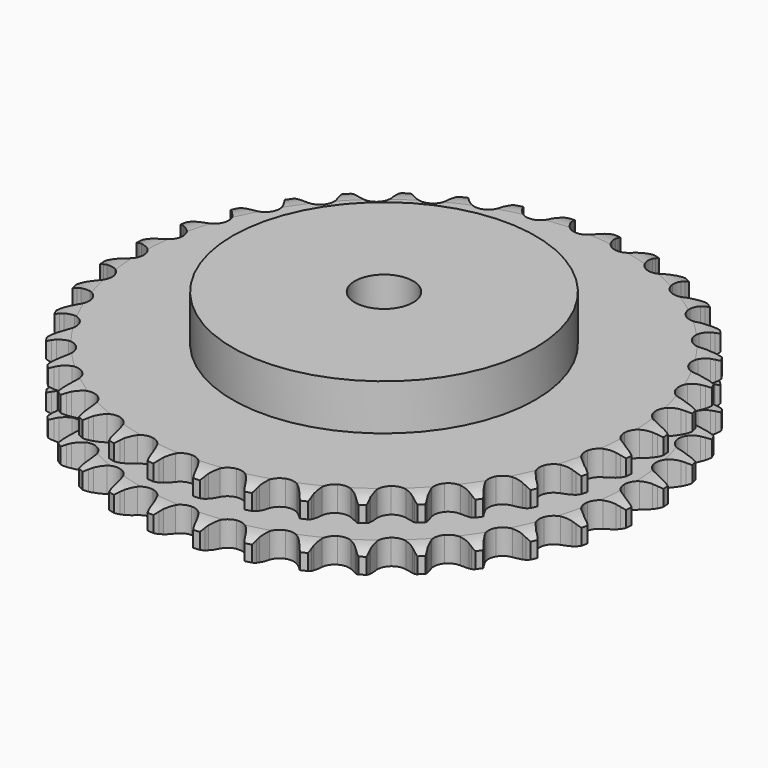
from build123d import *

# Parameters (mm, degrees)
PAD_DEPTH         = 30.3
SKETCH001_R       = 65
PAD001_DEPTH      = 50
SKETCH002_R       = 12.5
POCKET_DEPTH      = 0.001
POCKET_DEPTH_BACK = 50.001


with BuildPart() as part:
    # Sprocket → Pad (new body)
    with BuildSketch(Plane.XY):
        with BuildLine():
            ThreePointArc((-10.052334, 114.898699), (-8.631125, 113.189539), (-7.631331, 111.204226))
            Line((-7.631331, 111.204226), (-7.042556, 109.605897))
            ThreePointArc((-7.042556, 109.605897), (-6.111504, 107.547038), (-4.895578, 105.642496))
            ThreePointArc((-4.895578, 105.642496), (-2.739145, 103.833033), (0, 103.183844))
            ThreePointArc((0, 103.183844), (2.739145, 103.833033), (4.895578, 105.642496))
            ThreePointArc((4.895578, 105.642496), (6.111504, 107.547038), (7.042556, 109.605897))
            Line((7.042556, 109.605897), (7.631331, 111.204226))
            ThreePointArc((7.631331, 111.204226), (8.631125, 113.189539), (10.052334, 114.898699))
            ThreePointArc((10.052334, 114.898699), (11.155158, 112.968715), (11.795017, 110.83995))
            Line((11.795017, 110.83995), (12.0973, 109.163664))
            ThreePointArc((12.0973, 109.163664), (12.656691, 106.974409), (13.523423, 104.887657))
            ThreePointArc((13.523423, 104.887657), (15.332886, 102.731223), (17.917686, 101.616249))
            ThreePointArc((17.917686, 101.616249), (20.727948, 101.779928), (23.16583, 103.18744))
            Line((23.16583, 103.18744), (25.968428, 106.71781))
            ThreePointArc((25.968428, 106.71781), (26.377217, 107.465305), (26.825805, 108.189617))
            ThreePointArc((26.825805, 108.189617), (28.155156, 109.971157), (29.851566, 111.40756))
            ThreePointArc((29.851566, 111.40756), (30.602498, 109.315394), (30.86298, 107.107859))
            Line((30.86298, 107.107859), (30.869586, 105.404549))
            ThreePointArc((30.869586, 105.404549), (31.040318, 103.151416), (31.531523, 100.94586))
            ThreePointArc((31.531523, 100.94586), (32.939035, 98.507978), (35.290953, 96.961096))
            ThreePointArc((35.290953, 96.961096), (38.086943, 96.634292), (40.7322, 97.597087))
            Line((40.7322, 97.597087), (44.105263, 100.587156))
            ThreePointArc((44.105263, 100.587156), (44.637643, 101.25231), (45.20519, 101.887721))
            ThreePointArc((45.20519, 101.887721), (46.823707, 103.411356), (48.743773, 104.531359))
            ThreePointArc((48.743773, 104.531359), (49.119996, 102.340579), (48.993186, 100.12135))
            Line((48.993186, 100.12135), (48.703916, 98.442769))
            ThreePointArc((48.703916, 98.442769), (48.480802, 96.194219), (48.581552, 93.936874))
            ThreePointArc((48.581552, 93.936874), (49.544347, 91.291617), (51.591922, 89.35983))
            ThreePointArc((51.591922, 89.35983), (54.288685, 88.552472), (57.060943, 89.041296))
            Line((57.060943, 89.041296), (60.901981, 91.400213))
            ThreePointArc((60.901981, 91.400213), (61.541776, 91.962815), (62.211039, 92.490019))
            ThreePointArc((62.211039, 92.490019), (64.069543, 93.709454), (66.154926, 94.479025))
            ThreePointArc((66.154926, 94.479025), (66.145008, 92.256198), (65.63476, 90.092704))
            Line((65.63476, 90.092704), (65.058401, 88.489856))
            ThreePointArc((65.058401, 88.489856), (64.44822, 86.31421), (64.155457, 84.073664))
            ThreePointArc((64.155457, 84.073664), (64.64428, 81.301406), (66.325296, 79.04341))
            ThreePointArc((66.325296, 79.04341), (68.840894, 77.78003), (71.655918, 77.78003))
            Line((71.655918, 77.78003), (75.848224, 79.43612))
            ThreePointArc((75.848224, 79.43612), (76.575993, 79.879076), (77.326637, 80.282054))
            ThreePointArc((77.326637, 80.282054), (79.368659, 81.160237), (81.555994, 81.555994))
            ThreePointArc((81.555994, 81.555994), (81.160237, 79.368659), (80.282054, 77.326637))
            Line((80.282054, 77.326637), (79.43612, 75.848224))
            ThreePointArc((79.43612, 75.848224), (78.457412, 73.811587), (77.78003, 71.655918))
            ThreePointArc((77.78003, 71.655918), (77.78003, 68.840894), (79.04341, 66.325296))
            ThreePointArc((79.04341, 66.325296), (81.301406, 64.64428), (84.073664, 64.155457))
            Line((84.073664, 64.155457), (88.489856, 65.058401))
            ThreePointArc((88.489856, 65.058401), (89.283488, 65.368252), (90.092704, 65.63476))
            ThreePointArc((90.092704, 65.63476), (92.256198, 66.145008), (94.479025, 66.154926))
            ThreePointArc((94.479025, 66.154926), (93.709454, 64.069543), (92.490019, 62.211039))
            Line((92.490019, 62.211039), (91.400213, 60.901981))
            ThreePointArc((91.400213, 60.901981), (90.082715, 59.066237), (89.041296, 57.060943))
            ThreePointArc((89.041296, 57.060943), (88.552472, 54.288685), (89.35983, 51.591922))
            ThreePointArc((89.35983, 51.591922), (91.291617, 49.544347), (93.936874, 48.581552))
            Line((93.936874, 48.581552), (98.442769, 48.703916))
            ThreePointArc((98.442769, 48.703916), (99.278149, 48.871246), (100.12135, 48.993186))
            ThreePointArc((100.12135, 48.993186), (102.340579, 49.119996), (104.531359, 48.743773))
            ThreePointArc((104.531359, 48.743773), (103.411356, 46.823707), (101.887721, 45.20519))
            Line((101.887721, 45.20519), (100.587156, 44.105263))
            ThreePointArc((100.587156, 44.105263), (98.970901, 42.526188), (97.597087, 40.7322))
            ThreePointArc((97.597087, 40.7322), (96.634292, 38.086943), (96.961096, 35.290953))
            ThreePointArc((96.961096, 35.290953), (98.507978, 32.939035), (100.94586, 31.531523))
            Line((100.94586, 31.531523), (105.404549, 30.869586))
            ThreePointArc((105.404549, 30.869586), (106.256293, 30.889312), (107.107859, 30.86298))
            ThreePointArc((107.107859, 30.86298), (109.315394, 30.602498), (111.40756, 29.851566))
            ThreePointArc((111.40756, 29.851566), (109.971157, 28.155156), (108.189617, 26.825805))
            Line((108.189617, 26.825805), (106.71781, 25.968428))
            ThreePointArc((106.71781, 25.968428), (104.851906, 24.694004), (103.18744, 23.16583))
            ThreePointArc((103.18744, 23.16583), (101.779928, 20.727948), (101.616249, 17.917686))
            ThreePointArc((101.616249, 17.917686), (102.731223, 15.332886), (104.887657, 13.523423))
            Line((104.887657, 13.523423), (109.163664, 12.0973))
            ThreePointArc((109.163664, 12.0973), (110.005894, 11.968823), (110.83995, 11.795017))
            ThreePointArc((110.83995, 11.795017), (112.968715, 11.155158), (114.898699, 10.052334))
            ThreePointArc((114.898699, 10.052334), (113.189539, 8.631125), (111.204226, 7.631331))
            Line((111.204226, 7.631331), (109.605897, 7.042556))
            ThreePointArc((109.605897, 7.042556), (107.547038, 6.111504), (105.642496, 4.895578))
            ThreePointArc((105.642496, 4.895578), (103.833033, 2.739145), (103.183844, 0))
            ThreePointArc((103.183844, 0), (103.833033, -2.739145), (105.642496, -4.895578))
            Line((105.642496, -4.895578), (109.605897, -7.042556))
            ThreePointArc((109.605897, -7.042556), (110.413022, -7.315334), (111.204226, -7.631331))
            ThreePointArc((111.204226, -7.631331), (113.189539, -8.631125), (114.898699, -10.052334))
            ThreePointArc((114.898699, -10.052334), (112.968715, -11.155158), (110.83995, -11.795017))
            Line((110.83995, -11.795017), (109.163664, -12.0973))
            ThreePointArc((109.163664, -12.0973), (106.974409, -12.656691), (104.887657, -13.523423))
            ThreePointArc((104.887657, -13.523423), (102.731223, -15.332886), (101.616249, -17.917686))
            ThreePointArc((101.616249, -17.917686), (101.779928, -20.727948), (103.18744, -23.16583))
            Line((103.18744, -23.16583), (106.71781, -25.968428))
            ThreePointArc((106.71781, -25.968428), (107.465305, -26.377217), (108.189617, -26.825805))
            ThreePointArc((108.189617, -26.825805), (109.971157, -28.155156), (111.40756, -29.851566))
            ThreePointArc((111.40756, -29.851566), (109.315394, -30.602498), (107.107859, -30.86298))
            Line((107.107859, -30.86298), (105.404549, -30.869586))
            ThreePointArc((105.404549, -30.869586), (103.151416, -31.040318), (100.94586, -31.531523))
            ThreePointArc((100.94586, -31.531523), (98.507978, -32.939035), (96.961096, -35.290953))
            ThreePointArc((96.961096, -35.290953), (96.634292, -38.086943), (97.597087, -40.7322))
            Line((97.597087, -40.7322), (100.587156, -44.105263))
            ThreePointArc((100.587156, -44.105263), (101.25231, -44.637643), (101.887721, -45.20519))
            ThreePointArc((101.887721, -45.20519), (103.411356, -46.823707), (104.531359, -48.743773))
            ThreePointArc((104.531359, -48.743773), (102.340579, -49.119996), (100.12135, -48.993186))
            Line((100.12135, -48.993186), (98.442769, -48.703916))
            ThreePointArc((98.442769, -48.703916), (96.194219, -48.480802), (93.936874, -48.581552))
            ThreePointArc((93.936874, -48.581552), (91.291617, -49.544347), (89.35983, -51.591922))
            ThreePointArc((89.35983, -51.591922), (88.552472, -54.288685), (89.041296, -57.060943))
            Line((89.041296, -57.060943), (91.400213, -60.901981))
            ThreePointArc((91.400213, -60.901981), (91.962815, -61.541776), (92.490019, -62.211039))
            ThreePointArc((92.490019, -62.211039), (93.709454, -64.069543), (94.479025, -66.154926))
            ThreePointArc((94.479025, -66.154926), (92.256198, -66.145008), (90.092704, -65.63476))
            Line((90.092704, -65.63476), (88.489856, -65.058401))
            ThreePointArc((88.489856, -65.058401), (86.31421, -64.44822), (84.073664, -64.155457))
            ThreePointArc((84.073664, -64.155457), (81.301406, -64.64428), (79.04341, -66.325296))
            ThreePointArc((79.04341, -66.325296), (77.78003, -68.840894), (77.78003, -71.655918))
            Line((77.78003, -71.655918), (79.43612, -75.848224))
            ThreePointArc((79.43612, -75.848224), (79.879076, -76.575993), (80.282054, -77.326637))
            ThreePointArc((80.282054, -77.326637), (81.160237, -79.368659), (81.555994, -81.555994))
            ThreePointArc((81.555994, -81.555994), (79.368659, -81.160237), (77.326637, -80.282054))
            Line((77.326637, -80.282054), (75.848224, -79.43612))
            ThreePointArc((75.848224, -79.43612), (73.811587, -78.457412), (71.655918, -77.78003))
            ThreePointArc((71.655918, -77.78003), (68.840894, -77.78003), (66.325296, -79.04341))
            ThreePointArc((66.325296, -79.04341), (64.64428, -81.301406), (64.155457, -84.073664))
            Line((64.155457, -84.073664), (65.058401, -88.489856))
            ThreePointArc((65.058401, -88.489856), (65.368252, -89.283488), (65.63476, -90.092704))
            ThreePointArc((65.63476, -90.092704), (66.145008, -92.256198), (66.154926, -94.479025))
            ThreePointArc((66.154926, -94.479025), (64.069543, -93.709454), (62.211039, -92.490019))
            Line((62.211039, -92.490019), (60.901981, -91.400213))
            ThreePointArc((60.901981, -91.400213), (59.066237, -90.082715), (57.060943, -89.041296))
            ThreePointArc((57.060943, -89.041296), (54.288685, -88.552472), (51.591922, -89.35983))
            ThreePointArc((51.591922, -89.35983), (49.544347, -91.291617), (48.581552, -93.936874))
            Line((48.581552, -93.936874), (48.703916, -98.442769))
            ThreePointArc((48.703916, -98.442769), (48.871246, -99.278149), (48.993186, -100.12135))
            ThreePointArc((48.993186, -100.12135), (49.119996, -102.340579), (48.743773, -104.531359))
            ThreePointArc((48.743773, -104.531359), (46.823707, -103.411356), (45.20519, -101.887721))
            Line((45.20519, -101.887721), (44.105263, -100.587156))
            ThreePointArc((44.105263, -100.587156), (42.526188, -98.970901), (40.7322, -97.597087))
            ThreePointArc((40.7322, -97.597087), (38.086943, -96.634292), (35.290953, -96.961096))
            ThreePointArc((35.290953, -96.961096), (32.939035, -98.507978), (31.531523, -100.94586))
            Line((31.531523, -100.94586), (30.869586, -105.404549))
            ThreePointArc((30.869586, -105.404549), (30.889312, -106.256293), (30.86298, -107.107859))
            ThreePointArc((30.86298, -107.107859), (30.602498, -109.315394), (29.851566, -111.40756))
            ThreePointArc((29.851566, -111.40756), (28.155156, -109.971157), (26.825805, -108.189617))
            Line((26.825805, -108.189617), (25.968428, -106.71781))
            ThreePointArc((25.968428, -106.71781), (24.694004, -104.851906), (23.16583, -103.18744))
            ThreePointArc((23.16583, -103.18744), (20.727948, -101.779928), (17.917686, -101.616249))
            ThreePointArc((17.917686, -101.616249), (15.332886, -102.731223), (13.523423, -104.887657))
            Line((13.523423, -104.887657), (12.0973, -109.163664))
            ThreePointArc((12.0973, -109.163664), (11.968823, -110.005894), (11.795017, -110.83995))
            ThreePointArc((11.795017, -110.83995), (11.155158, -112.968715), (10.052334, -114.898699))
            ThreePointArc((10.052334, -114.898699), (8.631125, -113.189539), (7.631331, -111.204226))
            Line((7.631331, -111.204226), (7.042556, -109.605897))
            ThreePointArc((7.042556, -109.605897), (6.111504, -107.547038), (4.895578, -105.642496))
            ThreePointArc((4.895578, -105.642496), (2.739145, -103.833033), (0, -103.183844))
            ThreePointArc((0, -103.183844), (-2.739145, -103.833033), (-4.895578, -105.642496))
            Line((-4.895578, -105.642496), (-7.042556, -109.605897))
            ThreePointArc((-7.042556, -109.605897), (-7.315334, -110.413022), (-7.631331, -111.204226))
            ThreePointArc((-7.631331, -111.204226), (-8.631125, -113.189539), (-10.052334, -114.898699))
            ThreePointArc((-10.052334, -114.898699), (-11.155158, -112.968715), (-11.795017, -110.83995))
            Line((-11.795017, -110.83995), (-12.0973, -109.163664))
            ThreePointArc((-12.0973, -109.163664), (-12.656691, -106.974409), (-13.523423, -104.887657))
            ThreePointArc((-13.523423, -104.887657), (-15.332886, -102.731223), (-17.917686, -101.616249))
            ThreePointArc((-17.917686, -101.616249), (-20.727948, -101.779928), (-23.16583, -103.18744))
            Line((-23.16583, -103.18744), (-25.968428, -106.71781))
            ThreePointArc((-25.968428, -106.71781), (-26.377217, -107.465305), (-26.825805, -108.189617))
            ThreePointArc((-26.825805, -108.189617), (-28.155156, -109.971157), (-29.851566, -111.40756))
            ThreePointArc((-29.851566, -111.40756), (-30.602498, -109.315394), (-30.86298, -107.107859))
            Line((-30.86298, -107.107859), (-30.869586, -105.404549))
            ThreePointArc((-30.869586, -105.404549), (-31.040318, -103.151416), (-31.531523, -100.94586))
            ThreePointArc((-31.531523, -100.94586), (-32.939035, -98.507978), (-35.290953, -96.961096))
            ThreePointArc((-35.290953, -96.961096), (-38.086943, -96.634292), (-40.7322, -97.597087))
            Line((-40.7322, -97.597087), (-44.105263, -100.587156))
            ThreePointArc((-44.105263, -100.587156), (-44.637643, -101.25231), (-45.20519, -101.887721))
            ThreePointArc((-45.20519, -101.887721), (-46.823707, -103.411356), (-48.743773, -104.531359))
            ThreePointArc((-48.743773, -104.531359), (-49.119996, -102.340579), (-48.993186, -100.12135))
            Line((-48.993186, -100.12135), (-48.703916, -98.442769))
            ThreePointArc((-48.703916, -98.442769), (-48.480802, -96.194219), (-48.581552, -93.936874))
            ThreePointArc((-48.581552, -93.936874), (-49.544347, -91.291617), (-51.591922, -89.35983))
            ThreePointArc((-51.591922, -89.35983), (-54.288685, -88.552472), (-57.060943, -89.041296))
            Line((-57.060943, -89.041296), (-60.901981, -91.400213))
            ThreePointArc((-60.901981, -91.400213), (-61.541776, -91.962815), (-62.211039, -92.490019))
            ThreePointArc((-62.211039, -92.490019), (-64.069543, -93.709454), (-66.154926, -94.479025))
            ThreePointArc((-66.154926, -94.479025), (-66.145008, -92.256198), (-65.63476, -90.092704))
            Line((-65.63476, -90.092704), (-65.058401, -88.489856))
            ThreePointArc((-65.058401, -88.489856), (-64.44822, -86.31421), (-64.155457, -84.073664))
            ThreePointArc((-64.155457, -84.073664), (-64.64428, -81.301406), (-66.325296, -79.04341))
            ThreePointArc((-66.325296, -79.04341), (-68.840894, -77.78003), (-71.655918, -77.78003))
            Line((-71.655918, -77.78003), (-75.848224, -79.43612))
            ThreePointArc((-75.848224, -79.43612), (-76.575993, -79.879076), (-77.326637, -80.282054))
            ThreePointArc((-77.326637, -80.282054), (-79.368659, -81.160237), (-81.555994, -81.555994))
            ThreePointArc((-81.555994, -81.555994), (-81.160237, -79.368659), (-80.282054, -77.326637))
            Line((-80.282054, -77.326637), (-79.43612, -75.848224))
            ThreePointArc((-79.43612, -75.848224), (-78.457412, -73.811587), (-77.78003, -71.655918))
            ThreePointArc((-77.78003, -71.655918), (-77.78003, -68.840894), (-79.04341, -66.325296))
            ThreePointArc((-79.04341, -66.325296), (-81.301406, -64.64428), (-84.073664, -64.155457))
            Line((-84.073664, -64.155457), (-88.489856, -65.058401))
            ThreePointArc((-88.489856, -65.058401), (-89.283488, -65.368252), (-90.092704, -65.63476))
            ThreePointArc((-90.092704, -65.63476), (-92.256198, -66.145008), (-94.479025, -66.154926))
            ThreePointArc((-94.479025, -66.154926), (-93.709454, -64.069543), (-92.490019, -62.211039))
            Line((-92.490019, -62.211039), (-91.400213, -60.901981))
            ThreePointArc((-91.400213, -60.901981), (-90.082715, -59.066237), (-89.041296, -57.060943))
            ThreePointArc((-89.041296, -57.060943), (-88.552472, -54.288685), (-89.35983, -51.591922))
            ThreePointArc((-89.35983, -51.591922), (-91.291617, -49.544347), (-93.936874, -48.581552))
            Line((-93.936874, -48.581552), (-98.442769, -48.703916))
            ThreePointArc((-98.442769, -48.703916), (-99.278149, -48.871246), (-100.12135, -48.993186))
            ThreePointArc((-100.12135, -48.993186), (-102.340579, -49.119996), (-104.531359, -48.743773))
            ThreePointArc((-104.531359, -48.743773), (-103.411356, -46.823707), (-101.887721, -45.20519))
            Line((-101.887721, -45.20519), (-100.587156, -44.105263))
            ThreePointArc((-100.587156, -44.105263), (-98.970901, -42.526188), (-97.597087, -40.7322))
            ThreePointArc((-97.597087, -40.7322), (-96.634292, -38.086943), (-96.961096, -35.290953))
            ThreePointArc((-96.961096, -35.290953), (-98.507978, -32.939035), (-100.94586, -31.531523))
            Line((-100.94586, -31.531523), (-105.404549, -30.869586))
            ThreePointArc((-105.404549, -30.869586), (-106.256293, -30.889312), (-107.107859, -30.86298))
            ThreePointArc((-107.107859, -30.86298), (-109.315394, -30.602498), (-111.40756, -29.851566))
            ThreePointArc((-111.40756, -29.851566), (-109.971157, -28.155156), (-108.189617, -26.825805))
            Line((-108.189617, -26.825805), (-106.71781, -25.968428))
            ThreePointArc((-106.71781, -25.968428), (-104.851906, -24.694004), (-103.18744, -23.16583))
            ThreePointArc((-103.18744, -23.16583), (-101.779928, -20.727948), (-101.616249, -17.917686))
            ThreePointArc((-101.616249, -17.917686), (-102.731223, -15.332886), (-104.887657, -13.523423))
            Line((-104.887657, -13.523423), (-109.163664, -12.0973))
            ThreePointArc((-109.163664, -12.0973), (-110.005894, -11.968823), (-110.83995, -11.795017))
            ThreePointArc((-110.83995, -11.795017), (-112.968715, -11.155158), (-114.898699, -10.052334))
            ThreePointArc((-114.898699, -10.052334), (-113.189539, -8.631125), (-111.204226, -7.631331))
            Line((-111.204226, -7.631331), (-109.605897, -7.042556))
            ThreePointArc((-109.605897, -7.042556), (-107.547038, -6.111504), (-105.642496, -4.895578))
            ThreePointArc((-105.642496, -4.895578), (-103.833033, -2.739145), (-103.183844, 0))
            ThreePointArc((-103.183844, 0), (-103.833033, 2.739145), (-105.642496, 4.895578))
            Line((-105.642496, 4.895578), (-109.605897, 7.042556))
            ThreePointArc((-109.605897, 7.042556), (-110.413022, 7.315334), (-111.204226, 7.631331))
            ThreePointArc((-111.204226, 7.631331), (-113.189539, 8.631125), (-114.898699, 10.052334))
            ThreePointArc((-114.898699, 10.052334), (-112.968715, 11.155158), (-110.83995, 11.795017))
            Line((-110.83995, 11.795017), (-109.163664, 12.0973))
            ThreePointArc((-109.163664, 12.0973), (-106.974409, 12.656691), (-104.887657, 13.523423))
            ThreePointArc((-104.887657, 13.523423), (-102.731223, 15.332886), (-101.616249, 17.917686))
            ThreePointArc((-101.616249, 17.917686), (-101.779928, 20.727948), (-103.18744, 23.16583))
            Line((-103.18744, 23.16583), (-106.71781, 25.968428))
            ThreePointArc((-106.71781, 25.968428), (-107.465305, 26.377217), (-108.189617, 26.825805))
            ThreePointArc((-108.189617, 26.825805), (-109.971157, 28.155156), (-111.40756, 29.851566))
            ThreePointArc((-111.40756, 29.851566), (-109.315394, 30.602498), (-107.107859, 30.86298))
            Line((-107.107859, 30.86298), (-105.404549, 30.869586))
            ThreePointArc((-105.404549, 30.869586), (-103.151416, 31.040318), (-100.94586, 31.531523))
            ThreePointArc((-100.94586, 31.531523), (-98.507978, 32.939035), (-96.961096, 35.290953))
            ThreePointArc((-96.961096, 35.290953), (-96.634292, 38.086943), (-97.597087, 40.7322))
            Line((-97.597087, 40.7322), (-100.587156, 44.105263))
            ThreePointArc((-100.587156, 44.105263), (-101.25231, 44.637643), (-101.887721, 45.20519))
            ThreePointArc((-101.887721, 45.20519), (-103.411356, 46.823707), (-104.531359, 48.743773))
            ThreePointArc((-104.531359, 48.743773), (-102.340579, 49.119996), (-100.12135, 48.993186))
            Line((-100.12135, 48.993186), (-98.442769, 48.703916))
            ThreePointArc((-98.442769, 48.703916), (-96.194219, 48.480802), (-93.936874, 48.581552))
            ThreePointArc((-93.936874, 48.581552), (-91.291617, 49.544347), (-89.35983, 51.591922))
            ThreePointArc((-89.35983, 51.591922), (-88.552472, 54.288685), (-89.041296, 57.060943))
            Line((-89.041296, 57.060943), (-91.400213, 60.901981))
            ThreePointArc((-91.400213, 60.901981), (-91.962815, 61.541776), (-92.490019, 62.211039))
            ThreePointArc((-92.490019, 62.211039), (-93.709454, 64.069543), (-94.479025, 66.154926))
            ThreePointArc((-94.479025, 66.154926), (-92.256198, 66.145008), (-90.092704, 65.63476))
            Line((-90.092704, 65.63476), (-88.489856, 65.058401))
            ThreePointArc((-88.489856, 65.058401), (-86.31421, 64.44822), (-84.073664, 64.155457))
            ThreePointArc((-84.073664, 64.155457), (-81.301406, 64.64428), (-79.04341, 66.325296))
            ThreePointArc((-79.04341, 66.325296), (-77.78003, 68.840894), (-77.78003, 71.655918))
            Line((-77.78003, 71.655918), (-79.43612, 75.848224))
            ThreePointArc((-79.43612, 75.848224), (-79.879076, 76.575993), (-80.282054, 77.326637))
            ThreePointArc((-80.282054, 77.326637), (-81.160237, 79.368659), (-81.555994, 81.555994))
            ThreePointArc((-81.555994, 81.555994), (-79.368659, 81.160237), (-77.326637, 80.282054))
            Line((-77.326637, 80.282054), (-75.848224, 79.43612))
            ThreePointArc((-75.848224, 79.43612), (-73.811587, 78.457412), (-71.655918, 77.78003))
            ThreePointArc((-71.655918, 77.78003), (-68.840894, 77.78003), (-66.325296, 79.04341))
            ThreePointArc((-66.325296, 79.04341), (-64.64428, 81.301406), (-64.155457, 84.073664))
            Line((-64.155457, 84.073664), (-65.058401, 88.489856))
            ThreePointArc((-65.058401, 88.489856), (-65.368252, 89.283488), (-65.63476, 90.092704))
            ThreePointArc((-65.63476, 90.092704), (-66.145008, 92.256198), (-66.154926, 94.479025))
            ThreePointArc((-66.154926, 94.479025), (-64.069543, 93.709454), (-62.211039, 92.490019))
            Line((-62.211039, 92.490019), (-60.901981, 91.400213))
            ThreePointArc((-60.901981, 91.400213), (-59.066237, 90.082715), (-57.060943, 89.041296))
            ThreePointArc((-57.060943, 89.041296), (-54.288685, 88.552472), (-51.591922, 89.35983))
            ThreePointArc((-51.591922, 89.35983), (-49.544347, 91.291617), (-48.581552, 93.936874))
            Line((-48.581552, 93.936874), (-48.703916, 98.442769))
            ThreePointArc((-48.703916, 98.442769), (-48.871246, 99.278149), (-48.993186, 100.12135))
            ThreePointArc((-48.993186, 100.12135), (-49.119996, 102.340579), (-48.743773, 104.531359))
            ThreePointArc((-48.743773, 104.531359), (-46.823707, 103.411356), (-45.20519, 101.887721))
            Line((-45.20519, 101.887721), (-44.105263, 100.587156))
            ThreePointArc((-44.105263, 100.587156), (-42.526188, 98.970901), (-40.7322, 97.597087))
            ThreePointArc((-40.7322, 97.597087), (-38.086943, 96.634292), (-35.290953, 96.961096))
            ThreePointArc((-35.290953, 96.961096), (-32.939035, 98.507978), (-31.531523, 100.94586))
            Line((-31.531523, 100.94586), (-30.869586, 105.404549))
            ThreePointArc((-30.869586, 105.404549), (-30.889312, 106.256293), (-30.86298, 107.107859))
            ThreePointArc((-30.86298, 107.107859), (-30.602498, 109.315394), (-29.851566, 111.40756))
            ThreePointArc((-29.851566, 111.40756), (-28.155156, 109.971157), (-26.825805, 108.189617))
            Line((-26.825805, 108.189617), (-25.968428, 106.71781))
            ThreePointArc((-25.968428, 106.71781), (-24.694004, 104.851906), (-23.16583, 103.18744))
            ThreePointArc((-23.16583, 103.18744), (-20.727948, 101.779928), (-17.917686, 101.616249))
            ThreePointArc((-17.917686, 101.616249), (-15.332886, 102.731223), (-13.523423, 104.887657))
            Line((-13.523423, 104.887657), (-12.0973, 109.163664))
            ThreePointArc((-12.0973, 109.163664), (-11.968823, 110.005894), (-11.795017, 110.83995))
            ThreePointArc((-11.795017, 110.83995), (-11.155158, 112.968715), (-10.052334, 114.898699))
        make_face()
    extrude(amount=PAD_DEPTH)

    # Sketch → Groove (revolve, cut)
    with BuildSketch(Plane.XZ):
        with BuildLine():
            ThreePointArc((104.914719, 0), (109.273618, 0.506758), (113.4, 2))
            Line((113.4, 2), (113.4, 8.8))
            ThreePointArc((113.4, 8.8), (109.273618, 10.293242), (104.914719, 10.8))
            Line((65, 10.8), (104.914719, 10.8))
            Line((65, 19.5), (65, 10.8))
            Line((104.914719, 19.5), (65, 19.5))
            ThreePointArc((104.914719, 19.5), (109.273618, 20.006758), (113.4, 21.5))
            Line((113.4, 21.5), (113.4, 28.3))
            ThreePointArc((113.4, 28.3), (109.273618, 29.793242), (104.914719, 30.3))
            Line((104.914719, 30.3), (123.4, 30.3))
            Line((123.4, 30.3), (123.4, 0))
            Line((104.914719, 0), (123.4, 0))
        make_face()
    revolve(axis=Axis((0, 0, 0), (0, 0, 1)), mode=Mode.SUBTRACT)

    # Sketch001 → Pad001 (join)
    with BuildSketch(Plane.XY):
        Circle(SKETCH001_R)
    extrude(amount=PAD001_DEPTH)

    # Sketch002 → Pocket (cut, two sides)
    with BuildSketch(Plane.XY) as pocket_sk:
        Circle(SKETCH002_R)
    extrude(amount=-POCKET_DEPTH, mode=Mode.SUBTRACT)
    extrude(pocket_sk.sketch, amount=POCKET_DEPTH_BACK, mode=Mode.SUBTRACT)


solid = part.part
